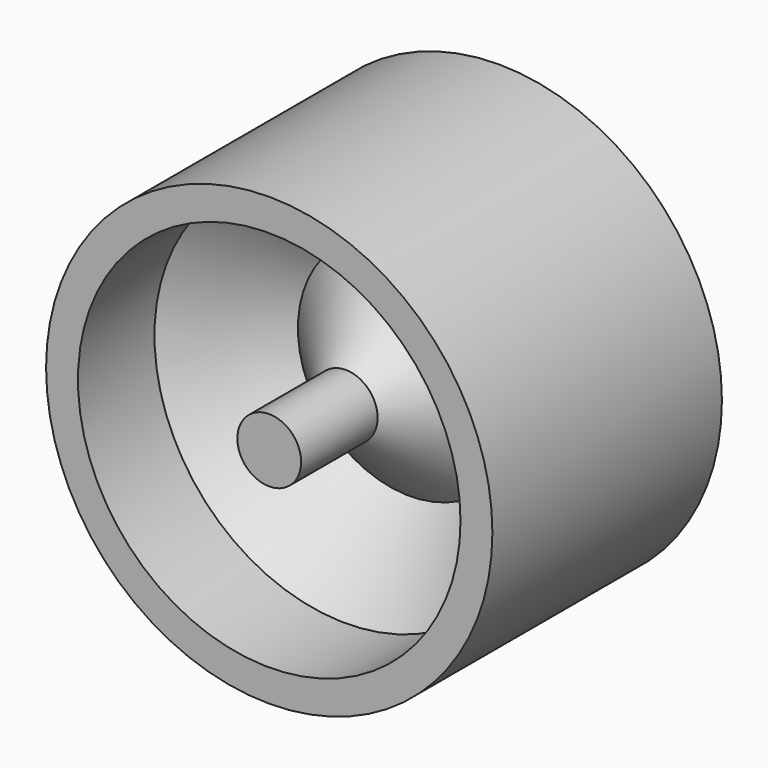
from build123d import *


with BuildPart() as f1:
    # F0 (on Top) → F1 (revolve)
    with BuildSketch(Plane.XY):
        Polygon((4, -36), (4, -24), (14, -14), (24, -24), (24, -36), (28, -36), (28, 0), (24, 0), (14, -10), (4, 0), (0, 0), (0, -36), align=None)
        Polygon((10.343146, -12), (4, -18.343146), (4, -5.656854), align=None, mode=Mode.SUBTRACT)
        Polygon((24, -18.343146), (17.656854, -12), (24, -5.656854), align=None, mode=Mode.SUBTRACT)
    revolve(axis=Axis((0, -18, 0), (0, -1, 0)))


solid = f1.part
